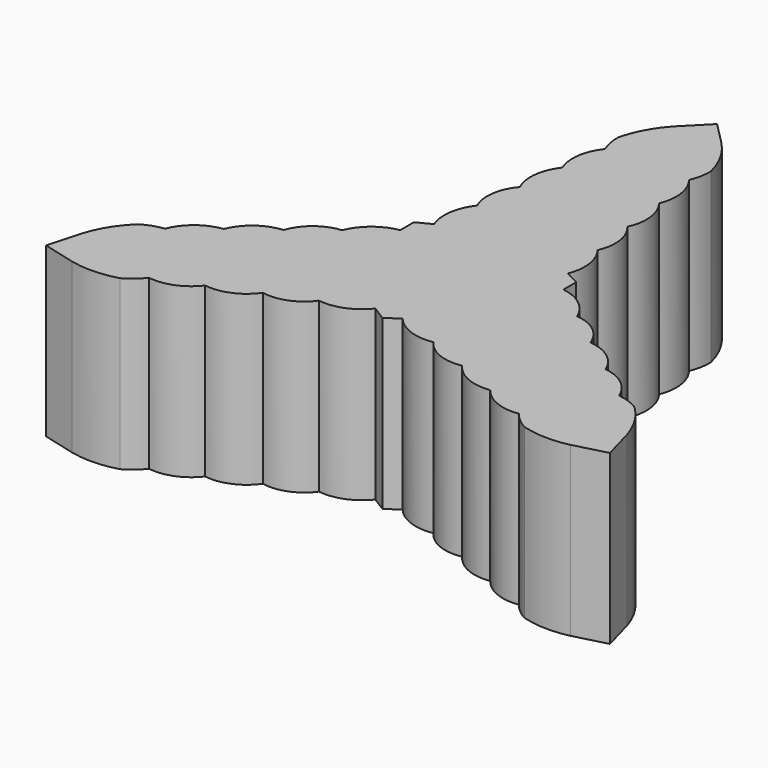
from build123d import *

# Parameters (mm, degrees)
F1_DEPTH = 25.4


with BuildPart() as f1:
    # F0 (on Top) → F1 (new body)
    with BuildSketch(Plane.XY):
        with BuildLine():
            Line((3.477422, 45.447773), (-0.106661, 49.077284))
            Line((-0.106661, 49.077284), (-3.690744, 45.447773))
            ThreePointArc((-3.690744, 45.447773), (-5.78098, 42.544917), (-7.076156, 39.210523))
            ThreePointArc((-7.076156, 39.210523), (-6.946034, 37.491108), (-6.447359, 35.840459))
            ThreePointArc((-6.447359, 35.840459), (-7.869109, 32.544822), (-7.416292, 28.984267))
            ThreePointArc((-7.416292, 28.984267), (-8.811931, 25.595328), (-8.225897, 21.977417))
            ThreePointArc((-8.225897, 21.977417), (-9.718126, 18.698842), (-9.209716, 15.132708))
            ThreePointArc((-9.209716, 15.132708), (-10.620539, 11.824686), (-10.209356, 8.251961))
            Line((-10.209356, 8.251961), (-12.369341, 7.146457))
            Line((-12.369341, 7.146457), (-12.369341, 4.638605))
            Line((-12.369341, 4.638605), (-12.369341, 4.568298))
            ThreePointArc((-12.369341, 4.568298), (-15.593098, 3.118565), (-17.702714, 0.282397))
            ThreePointArc((-17.702714, 0.282397), (-21.045283, -1.060374), (-23.138497, -3.991969))
            ThreePointArc((-23.138497, -3.991969), (-26.564717, -5.293405), (-28.801805, -8.196533))
            ThreePointArc((-28.801805, -8.196533), (-32.111744, -9.58466), (-34.254974, -12.46375))
            ThreePointArc((-34.254974, -12.46375), (-35.933816, -12.857209), (-37.487934, -13.604227))
            ThreePointArc((-37.487934, -13.604227), (-39.728016, -16.39308), (-41.196845, -19.654706))
            Line((-41.196845, -19.654706), (-42.548052, -24.573368))
            Line((-42.548052, -24.573368), (-37.612762, -25.862519))
            ThreePointArc((-37.612762, -25.862519), (-34.053697, -26.221289), (-30.518439, -25.675748))
            ThreePointArc((-30.518439, -25.675748), (-29.094443, -24.703351), (-27.914277, -23.446161))
            ThreePointArc((-27.914277, -23.446161), (-24.349296, -23.029614), (-21.492173, -20.857186))
            ThreePointArc((-21.492173, -20.857186), (-17.859447, -20.371375), (-15.019261, -18.054899))
            ThreePointArc((-15.019261, -18.054899), (-11.433817, -17.70792), (-8.599659, -15.484556))
            ThreePointArc((-8.599659, -15.484556), (-5.029416, -15.052354), (-2.140938, -12.909897))
            Line((-2.140938, -12.909897), (0, -14.256157))
            Line((0, -14.256157), (1.969674, -12.909897))
            ThreePointArc((1.969674, -12.909897), (4.939276, -15.008447), (8.560302, -15.341037))
            ThreePointArc((8.560302, -15.341037), (11.39446, -17.564401), (14.979903, -17.91138))
            ThreePointArc((14.979903, -17.91138), (17.820089, -20.227855), (21.452816, -20.713666))
            ThreePointArc((21.452816, -20.713666), (24.309939, -22.886095), (27.874919, -23.302641))
            ThreePointArc((27.874919, -23.302641), (29.055086, -24.559831), (30.479082, -25.532228))
            ThreePointArc((30.479082, -25.532228), (34.014339, -26.077769), (37.573405, -25.719))
            Line((37.573405, -25.719), (42.508694, -24.429848))
            Line((42.508694, -24.429848), (41.157487, -19.511186))
            ThreePointArc((41.157487, -19.511186), (39.688658, -16.24956), (37.448577, -13.460708))
            ThreePointArc((37.448577, -13.460708), (35.894459, -12.71369), (34.215617, -12.320231))
            ThreePointArc((34.215617, -12.320231), (32.072387, -9.441141), (28.762447, -8.053014))
            ThreePointArc((28.762447, -8.053014), (26.525359, -5.149886), (23.09914, -3.84845))
            ThreePointArc((23.09914, -3.84845), (21.005925, -0.916855), (17.663357, 0.425917))
            ThreePointArc((17.663357, 0.425917), (15.484762, 3.316808), (12.15602, 4.739133))
            Line((12.15602, 4.739133), (12.15602, 7.146457))
            Line((12.15602, 7.146457), (9.996034, 8.251961))
            ThreePointArc((9.996034, 8.251961), (10.407218, 11.824686), (8.996394, 15.132708))
            ThreePointArc((8.996394, 15.132708), (9.504805, 18.698842), (8.012576, 21.977417))
            ThreePointArc((8.012576, 21.977417), (8.598609, 25.595328), (7.20297, 28.984267))
            ThreePointArc((7.20297, 28.984267), (7.655787, 32.544822), (6.234037, 35.840459))
            ThreePointArc((6.234037, 35.840459), (6.732712, 37.491108), (6.862835, 39.210523))
            ThreePointArc((6.862835, 39.210523), (5.567658, 42.544917), (3.477422, 45.447773))
        make_face()
    extrude(amount=F1_DEPTH)


solid = f1.part
